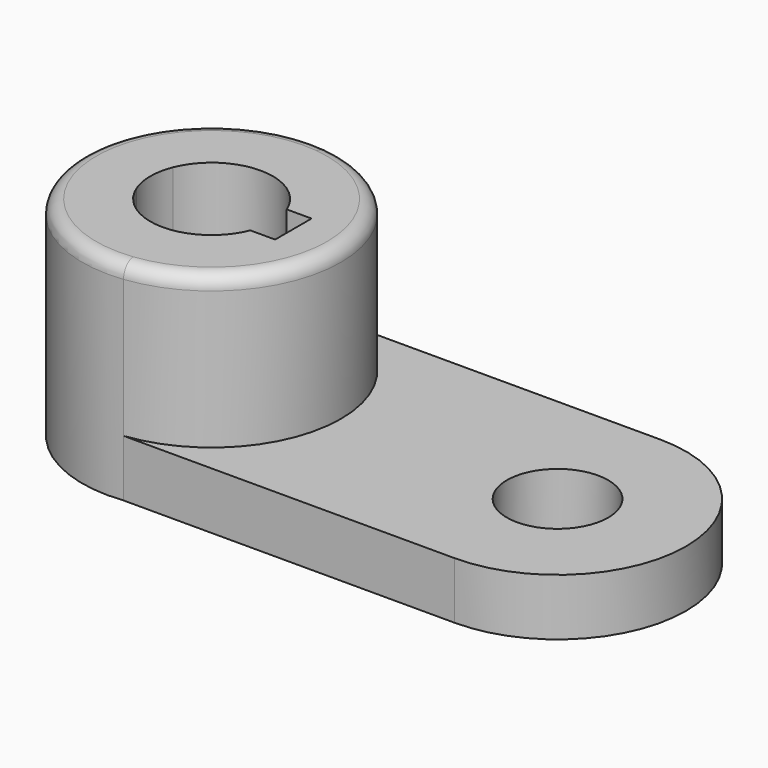
from build123d import *

# Parameters (mm, degrees)
F0_R     = 41.7429221606
F1_DEPTH = 75.438
F0_R_2   = 18.342139753
F2_DEPTH = 20.574
F3_DEPTH = 73
F4_R     = 5


with BuildPart() as f1:
    # F0 (on Top) → F1 (new body)
    with BuildSketch(Plane.XY):
        with BuildLine():
            ThreePointArc((5.3434108118, -46.5023219585), (34.9366141904, -31.1520621396), (46.8083110851, 0))
            ThreePointArc((46.8083110851, 0), (34.9366141904, 31.1520621396), (5.3434108118, 46.5023219585))
            ThreePointArc((5.3434108118, 46.5023219585), (-46.8083110851, 0), (5.3434108118, -46.5023219585))
        make_face()
        Circle(F0_R, mode=Mode.SUBTRACT)
        Circle(F0_R)
        with BuildLine():
            ThreePointArc((-20.5937367847, -8.2344636321), (-22.1790077791, 0), (-20.5937367847, 8.2344636321))
            ThreePointArc((-20.5937367847, 8.2344636321), (0, 22.1790077791), (20.5937367847, 8.2344636321))
            Line((20.5937367847, 8.2344636321), (29.5797027647, 8.2344636321))
            Line((29.5797027647, 8.2344636321), (29.5797027647, -8.2344636321))
            Line((29.5797027647, -8.2344636321), (20.5937367847, -8.2344636321))
            ThreePointArc((20.5937367847, -8.2344636321), (0, -22.1790077791), (-20.5937367847, -8.2344636321))
        make_face(mode=Mode.SUBTRACT)
    extrude(amount=F1_DEPTH)

    # F0 (on Top) → F2 (join)
    with BuildSketch(Plane.XY):
        with BuildLine():
            ThreePointArc((5.3434108118, 46.5023219585), (34.9366141904, 31.1520621396), (46.8083110851, 0))
            ThreePointArc((46.8083110851, 0), (34.9366141904, -31.1520621396), (5.3434108118, -46.5023219585))
            Line((5.3434108118, -46.5023219585), (125.1767128706, -46.5023219585))
            ThreePointArc((125.1767128706, -46.5023219585), (171.6790348291, 0), (125.1767128706, 46.5023219585))
            Line((125.1767128706, 46.5023219585), (5.3434108118, 46.5023219585))
        make_face()
        with Locations((125.1767128706, 0)):
            Circle(F0_R_2, mode=Mode.SUBTRACT)
        with BuildLine():
            ThreePointArc((5.3434108118, 46.5023219585), (34.9366141904, 31.1520621396), (46.8083110851, 0))
            ThreePointArc((46.8083110851, 0), (34.9366141904, -31.1520621396), (5.3434108118, -46.5023219585))
            Line((5.3434108118, -46.5023219585), (125.1767128706, -46.5023219585))
            ThreePointArc((125.1767128706, -46.5023219585), (171.6790348291, 0), (125.1767128706, 46.5023219585))
            Line((125.1767128706, 46.5023219585), (5.3434108118, 46.5023219585))
        make_face()
        with Locations((125.1767128706, 0)):
            Circle(F0_R_2, mode=Mode.SUBTRACT)
    extrude(amount=F2_DEPTH)

    # F0 (on Top) → F3 (join)
    with BuildSketch(Plane.XY):
        with BuildLine():
            ThreePointArc((5.3434108118, -46.5023219585), (34.9366141904, -31.1520621396), (46.8083110851, 0))
            ThreePointArc((46.8083110851, 0), (34.9366141904, 31.1520621396), (5.3434108118, 46.5023219585))
            ThreePointArc((5.3434108118, 46.5023219585), (-46.8083110851, 0), (5.3434108118, -46.5023219585))
        make_face()
        Circle(F0_R, mode=Mode.SUBTRACT)
    extrude(amount=F3_DEPTH)

    # F4
    f4_edges = [f1.edges().sort_by_distance(p)[0] for p in [
        (-5.343411, 46.502322, 75.438),
    ]]
    fillet(f4_edges, radius=F4_R)


solid = f1.part
